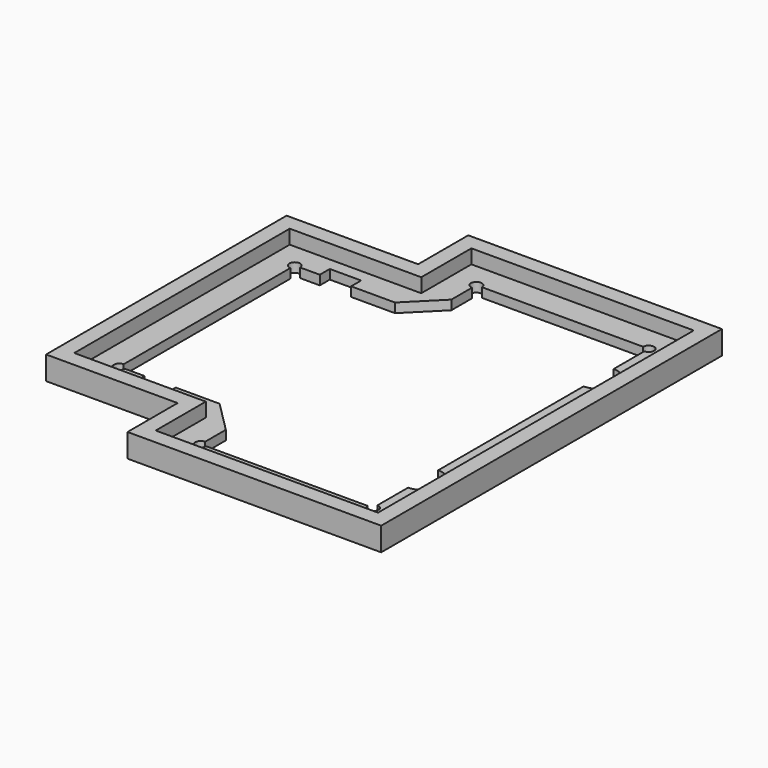
from build123d import *

# Parameters (mm, degrees)
F1_DEPTH  = 3
F3_DEPTH  = 3
F5_DEPTH  = 3.001
F6_R      = 1.75
F6_R_2    = 6
F6_W      = 10
F6_H      = 4
F7_DEPTH  = 25
F9_DEPTH  = 4.5
F11_DEPTH = 7.501


with BuildPart() as f1:
    # F0 (on Top) → F1 (new body)
    with BuildSketch(Plane.XY):
        Polygon((56.5, 63), (-14.5, 63), (-14.5, 43), (-56.5, 43), (-56.5, -43), (-14.5, -43), (-14.5, -63), (56.5, -63), align=None)
    extrude(amount=F1_DEPTH)

    # F2 (on face) → F3 (join, through all)
    with BuildSketch(Plane.XY.offset(3)):
        Polygon((-19.5, -68), (61.5, -68), (61.5, 68), (-19.5, 68), (-19.5, 48), (-61.5, 48), (-61.5, -48), (-19.5, -48), align=None)
        Polygon((-14.5, 63), (56.5, 63), (56.5, -63), (-14.5, -63), (-14.5, -43), (-56.5, -43), (-56.5, 43), (-14.5, 43), align=None, mode=Mode.SUBTRACT)
    extrude(amount=-F3_DEPTH)

    # F4 (on face) → F5 (cut, through all)
    with BuildSketch(Plane.XY.offset(3)):
        Polygon((-6.5, 55), (-6.5, 35), (-48.5, 35), (-48.5, -35), (-6.5, -35), (-6.5, -55), (48.5, -55), (48.5, 55), align=None)
    extrude(amount=-F5_DEPTH, mode=Mode.SUBTRACT)

    # F6 (on face) → F7 (cut)
    with BuildSketch(Plane.XY.offset(3)):
        with Locations((-48.5, 35)):
            Circle(F6_R)
        with Locations((-6.5, 55)):
            Circle(F6_R)
        with Locations((48.5, 55)):
            Circle(F6_R)
        with Locations((48.5, -55)):
            Circle(F6_R)
        with Locations((-6.5, -55)):
            Circle(F6_R)
        with Locations((-48.5, -35)):
            Circle(F6_R)
        with Locations((48.5, 35)):
            Circle(F6_R_2)
        with Locations((48.5, -35)):
            Circle(F6_R_2)
        with Locations((-35.5, 37)):
            Rectangle(F6_W, F6_H)
        with Locations((-35.5, -37)):
            Rectangle(F6_W, F6_H)
    extrude(amount=-F7_DEPTH, mode=Mode.SUBTRACT)

    # F8 (on face) → F9 (join)
    with BuildSketch(Plane.XY.offset(3)):
        Polygon((-19.5, -48), (-19.5, -68), (61.5, -68), (61.5, 68), (-19.5, 68), (-19.5, 48), (-61.5, 48), (-61.5, -48), align=None)
        Polygon((-14.5, 43), (-14.5, 63), (56.5, 63), (56.5, -63), (-14.5, -63), (-14.5, -43), (-56.5, -43), (-56.5, 43), align=None, mode=Mode.SUBTRACT)
    extrude(amount=F9_DEPTH)

    # F10 (on face) → F11 (cut, through all)
    with BuildSketch(Plane(origin=(0, 0, 0), x_dir=(1, 0, 0), z_dir=(0, 0, -1))):
        Polygon((-6.5, 35), (-6.5, 45), (-16.5, 35), align=None)
        Polygon((-16.5, -35), (-6.5, -45), (-6.5, -35), align=None)
    extrude(amount=-F11_DEPTH, mode=Mode.SUBTRACT)


solid = f1.part
